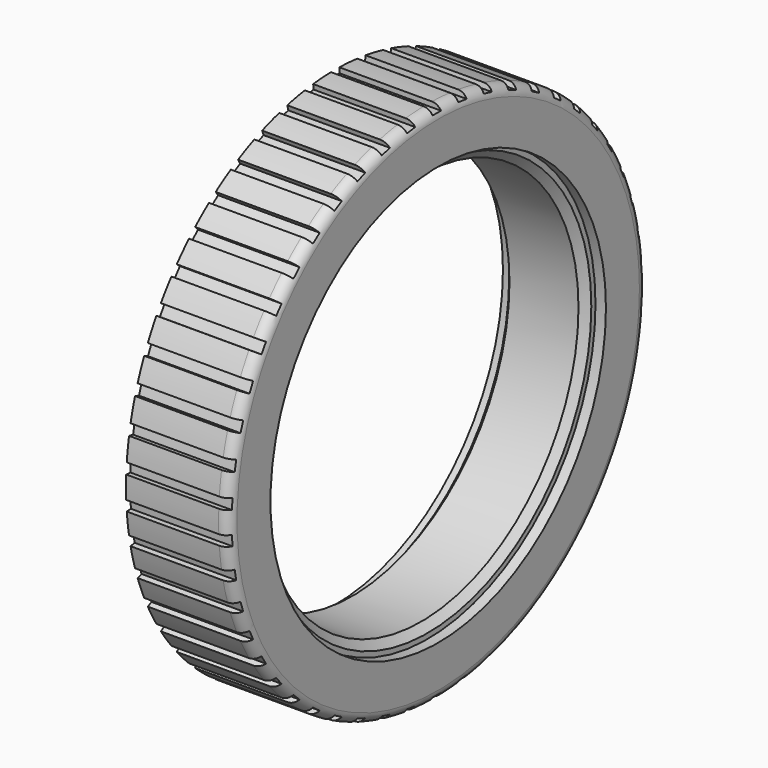
from build123d import *

# Parameters (mm, degrees)
SKETCH001_W        = 2
SKETCH001_H        = 1
POCKET_DEPTH       = 305.274739
POLARPATTERN_COUNT = 50


with BuildPart() as part:
    # Sketch → Revolution (revolve)
    with BuildSketch(Plane.XY):
        with BuildLine():
            Line((-7.85, 39.1), (-6.6, 37.6))
            Line((-6.6, 37.6), (6.6, 37.6))
            Line((6.6, 37.6), (7.85, 39.1))
            Line((7.85, 39.1), (7.85, 40.1))
            Line((7.85, 40.1), (9.85, 40.1))
            Line((9.85, 40.1), (9.85, 48.1))
            ThreePointArc((9.85, 48.1), (9.230906, 49.449138), (7.852502, 50))
            Line((7.852502, 50), (-9.85, 50))
            Line((-9.85, 50), (-9.85, 40.1))
            Line((-9.85, 40.1), (-7.85, 40.1))
            Line((-7.85, 39.1), (-7.85, 40.1))
        make_face()
        with BuildLine():
            Line((-8.85, 48), (-8.85, 41.1))
            Line((-8.85, 41.1), (-6.85, 41.1))
            Line((-6.85, 41.1), (-6.85, 39.1))
            Line((-6.85, 39.1), (-6.433333, 38.6))
            Line((-6.433333, 38.6), (6.433333, 38.6))
            Line((6.433333, 38.6), (6.85, 39.1))
            Line((6.85, 39.1), (6.85, 41.1))
            Line((6.85, 41.1), (8.85, 41.1))
            Line((8.85, 41.1), (8.85, 46))
            ThreePointArc((8.85, 46), (8.264214, 47.414214), (6.85, 48))
            Line((6.85, 48), (-8.85, 48))
        make_face(mode=Mode.SUBTRACT)
    revolve(axis=Axis((0, 0, 0), (1, 0, 0)))

    # Sketch001 (on Face9 of Revolution) → Pocket (cut, through all)
    with BuildSketch(Plane(origin=(-9.85, 0, 0), x_dir=(0, -1, 0), z_dir=(-1, 0, 0))):
        with Locations((0, 49.5)):
            Rectangle(SKETCH001_W, SKETCH001_H)
    pocket = extrude(amount=-POCKET_DEPTH, mode=Mode.SUBTRACT)

    # PolarPattern: Pocket ×50 about axis
    polarpattern_axis = Axis((-9.85, 0, 0), (-1, 0, 0))
    for i in range(1, POLARPATTERN_COUNT):
        add(pocket.rotate(polarpattern_axis, i * 360 / POLARPATTERN_COUNT), mode=Mode.SUBTRACT)


solid = part.part
